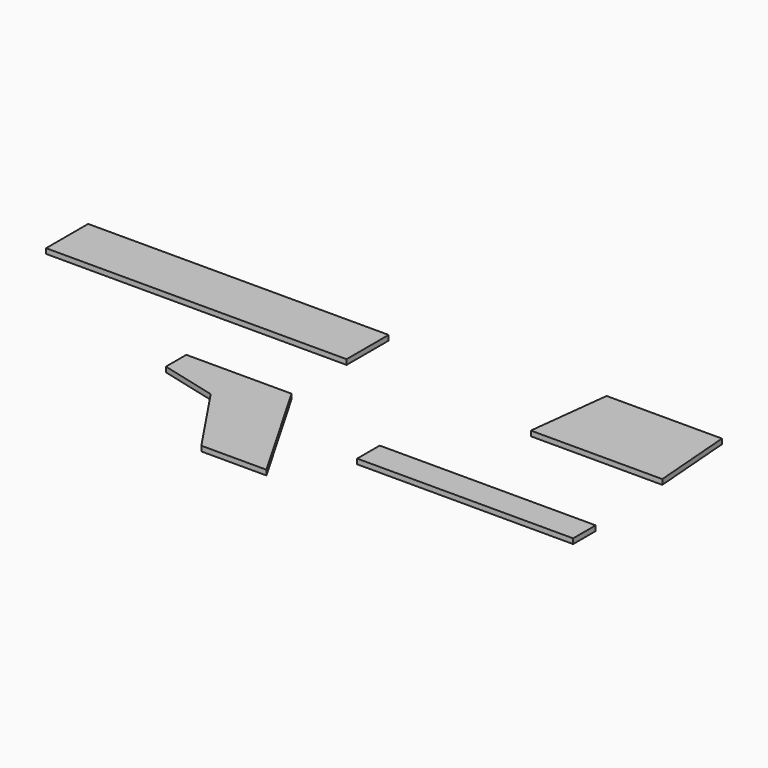
from build123d import *

# Parameters (mm, degrees)
F1_W     = 1600
F1_H     = 280
F2_DEPTH = 27
F3_W     = 1150
F3_H     = 150
F4_DEPTH = 27
F6_DEPTH = 27
F8_DEPTH = 27


with BuildPart() as f2:
    # F1 (on Top) → F2 (new body)
    with BuildSketch(Plane.XY):
        with Locations((-1533.9374229312, 163.1630075723)):
            Rectangle(F1_W, F1_H)
    extrude(amount=F2_DEPTH)


with BuildPart() as f4:
    # F3 (on Top) → F4 (new body)
    with BuildSketch(Plane.XY):
        with Locations((434.4969987869, -573.1007933617)):
            Rectangle(F3_W, F3_H)
    extrude(amount=F4_DEPTH)


with BuildPart() as f6:
    # F5 (on Top) → F6 (new body)
    with BuildSketch(Plane.XY):
        Polygon((-718.7933301926, -362.3247981071), (-1278.7933301926, -362.3247981071), (-1278.7933301926, -498.1443583965), (-978.7063193321, -575.2648115158), (-718.7933301926, -962.3247981071), align=None)
        Polygon((-372.3831686788, -962.3247981071), (-718.7933301926, -362.3247981071), (-718.7933301926, -962.3247981071), align=None)
    extrude(amount=F6_DEPTH)


with BuildPart() as f8:
    # F7 (on Top) → F8 (new body)
    with BuildSketch(Plane.XY):
        Polygon((931.1510100365, 440), (317.1510100365, 440), (265.7196223736, 0), (965.7196223736, 0), align=None)
    extrude(amount=F8_DEPTH)


solid = Compound([f2.part, f4.part, f6.part, f8.part])
